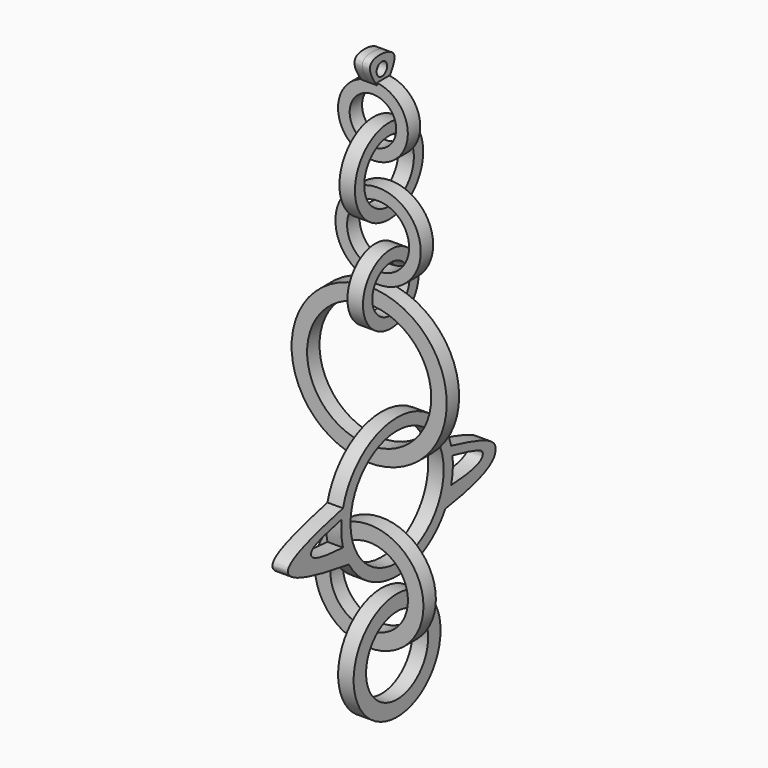
from build123d import *

# Parameters (mm, degrees)
F0_R           = 12.7
F0_R_2         = 10.16
F1_DEPTH       = 2.54
F2_R           = 9.525
F3_DEPTH       = 2.54
F4_R           = 8.89
F4_R_2         = 6.35
F5_DEPTH       = 2.54
F6_R           = 8.89
F6_R_2         = 6.35
F7_DEPTH       = 2.54
F8_R           = 5.715
F8_R_2         = 3.81
F9_DEPTH       = 2.54
F10_R          = 6.985
F10_R_2        = 5.08
F11_DEPTH      = 2.54
F12_R          = 6.985
F12_R_2        = 5.08
F13_DEPTH      = 2.54
F14_R          = 5.715
F14_R_2        = 3.81
F15_DEPTH      = 2.54
F16_R          = 1.0757823603
F17_DEPTH      = 1.27
F17_DEPTH_BACK = 1.27


with BuildPart() as f1:
    # F0 (on Front) → F1 (new body)
    with BuildSketch(Plane.XZ):
        Circle(F0_R)
        Circle(F0_R_2, mode=Mode.SUBTRACT)
    extrude(amount=F1_DEPTH)


with BuildPart() as f3:
    # F2 (on Right) → F3 (new body)
    with BuildSketch(Plane.YZ):
        with BuildLine():
            ThreePointArc((-9.8736218887, -23.5316872631), (0, -29.2035199505), (9.8736218887, -23.5316872631))
            add(Edge.make_bspline(
                [(9.8736218887, -23.5316872631), (18.5105518516, -22.2576764036), (21.6086618873, -18.9620666412), (18.9019507014, -16.7834548757), (11.072217572, -14.9361095045)],
                knots=[0, 0, 0, 0, 0.5135644631, 1, 1, 1, 1], degree=3))
            ThreePointArc((11.072217572, -14.9361095045), (0, -6.3435199505), (-11.072217572, -14.9361095045))
            add(Edge.make_bspline(
                [(-9.8736218887, -23.5316872631), (-18.4358443999, -22.2686963036), (-25.9786251634, -19.6339256012), (-18.9734531893, -16.8003251557), (-11.072217572, -14.9361095045)],
                knots=[0, 0, 0, 0, 0.509122249, 1, 1, 1, 1], degree=3))
        make_face()
        with BuildLine():
            ThreePointArc((-11.35202354, -16.4406802948), (-11.4043585457, -18.5387036936), (-11.072217572, -20.6109303965))
            add(Edge.make_bspline(
                [(-11.072217572, -20.6109303965), (-16.7074210707, -20.3306461976), (-18.4387812048, -18.8565427148), (-16.8743774282, -17.6803462503), (-11.35202354, -16.4406802948)],
                knots=[0, 0, 0, 0, 0.50028794, 1, 1, 1, 1], degree=3))
        make_face(mode=Mode.SUBTRACT)
        with BuildLine():
            add(Edge.make_bspline(
                [(11.072217572, -20.6109303965), (16.7316006123, -20.3294435537), (18.2808743755, -18.4961720191), (16.8506547949, -17.6750209594), (11.35202354, -16.4406802948)],
                knots=[0, 0, 0, 0, 0.5024345764, 1, 1, 1, 1], degree=3))
            ThreePointArc((11.072217572, -20.6109303965), (11.4043585457, -18.5387036936), (11.35202354, -16.4406802948))
        make_face(mode=Mode.SUBTRACT)
        with Locations((0, -17.7735199505)):
            Circle(F2_R, mode=Mode.SUBTRACT)
    extrude(amount=F3_DEPTH)


with BuildPart() as f5:
    # F4 (on Front) → F5 (new body)
    with BuildSketch(Plane.XZ):
        with Locations((0, -30.48)):
            Circle(F4_R)
        with Locations((0, -30.48)):
            Circle(F4_R_2, mode=Mode.SUBTRACT)
    extrude(amount=F5_DEPTH)


with BuildPart() as f7:
    # F6 (on Right) → F7 (new body)
    with BuildSketch(Plane.YZ):
        with Locations((0, -40.64)):
            Circle(F6_R)
        with Locations((0, -40.64)):
            Circle(F6_R_2, mode=Mode.SUBTRACT)
    extrude(amount=F7_DEPTH)


with BuildPart() as f9:
    # F8 (on Right) → F9 (new body)
    with BuildSketch(Plane.YZ):
        with Locations((-1.27, 12.7)):
            Circle(F8_R)
        with Locations((-1.27, 12.7)):
            Circle(F8_R_2, mode=Mode.SUBTRACT)
    extrude(amount=F9_DEPTH)


with BuildPart() as f11:
    # F10 (on Front) → F11 (new body)
    with BuildSketch(Plane.XZ):
        with Locations((1.4604773605, 20.4708576202)):
            Circle(F10_R)
        with Locations((1.4604773605, 20.4708576202)):
            Circle(F10_R_2, mode=Mode.SUBTRACT)
    extrude(amount=F11_DEPTH)


with BuildPart() as f13:
    # F12 (on Right) → F13 (new body)
    with BuildSketch(Plane.YZ):
        with Locations((-1.644058153, 29.8360362649)):
            Circle(F12_R)
        with Locations((-1.644058153, 29.8360362649)):
            Circle(F12_R_2, mode=Mode.SUBTRACT)
    extrude(amount=F13_DEPTH)


with BuildPart() as f15:
    # F14 (on Front) → F15 (new body)
    with BuildSketch(Plane.XZ):
        with Locations((0.6167717511, 36.83)):
            Circle(F14_R)
        with Locations((0.6167717511, 36.83)):
            Circle(F14_R_2, mode=Mode.SUBTRACT)
    extrude(amount=F15_DEPTH)

    # F16 (on Right) → F17 (join, two sides)
    with BuildSketch(Plane.YZ) as f17_sk:
        with BuildLine():
            Line((-2.186801983, 41.6470505297), (0, 42.2387383878))
            add(Edge.make_bspline(
                [(0, 42.2387383878), (0.732275642, 43.3974169157), (2.3665027509, 46.1301105442), (-5.6733430923, 46.872656682), (-3.3271464123, 43.1967134954), (-2.186801983, 41.6470505297)],
                knots=[0, 0, 0, 0, 0.300701065, 0.6512185434, 1, 1, 1, 1], degree=3))
        make_face()
        with Locations((-1.5314007178, 44.087741524)):
            Circle(F16_R, mode=Mode.SUBTRACT)
    extrude(amount=F17_DEPTH)
    extrude(f17_sk.sketch, amount=-F17_DEPTH_BACK)


solid = Compound([f1.part, f3.part, f5.part, f7.part, f9.part, f11.part, f13.part, f15.part])
